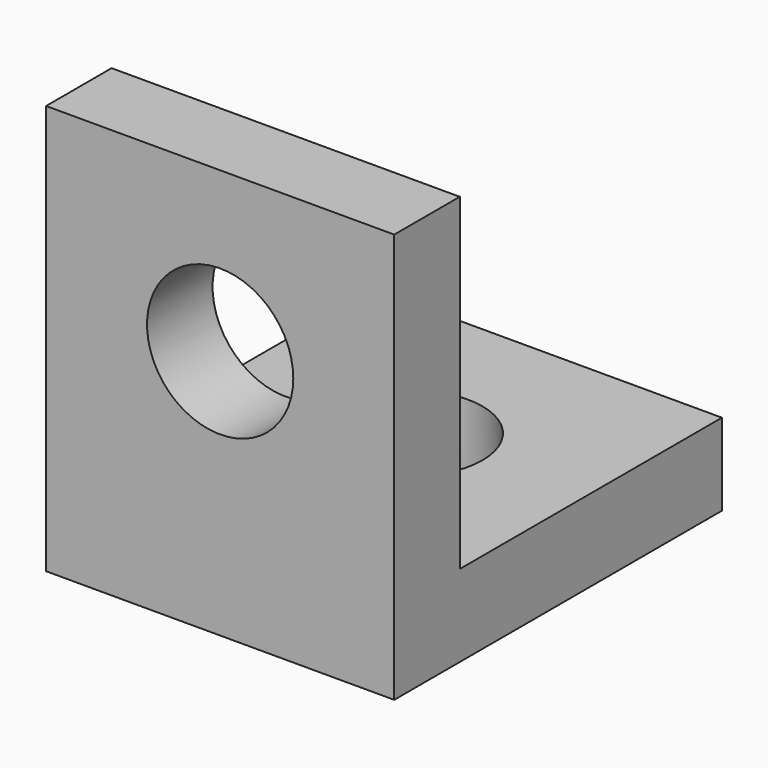
from build123d import *

# Parameters (mm, degrees)
F0_W     = 17
F0_H     = 20
F0_R     = 3.57
F1_DEPTH = 4
F2_W     = 17
F2_H     = 16
F2_R     = 3.57
F3_DEPTH = 4


with BuildPart() as f1:
    # F0 (on Front) → F1 (new body)
    with BuildSketch(Plane.XZ):
        Rectangle(F0_W, F0_H)
        with Locations((0, 2.212742)):
            Circle(F0_R, mode=Mode.SUBTRACT)
    extrude(amount=F1_DEPTH)

    # F2 (on face) → F3 (join)
    with BuildSketch(Plane(origin=(0, 0, -10), x_dir=(1, 0, 0), z_dir=(0, 0, -1))):
        with Locations((0, -8)):
            Rectangle(F2_W, F2_H)
        with Locations((0, -7.547601)):
            Circle(F2_R, mode=Mode.SUBTRACT)
    extrude(amount=-F3_DEPTH)


solid = f1.part
